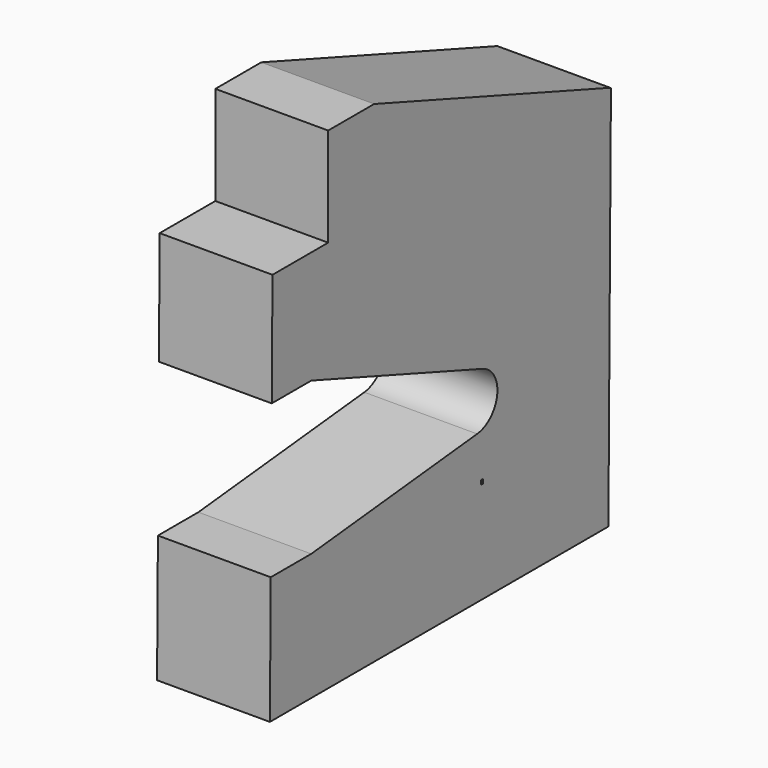
from build123d import *

# Parameters (mm, degrees)
F0_W     = 8.845668
F0_H     = 15.479952
F1_DEPTH = 203.2


with BuildPart() as f1:
    # F0 (on Right) → F1 (new body, symmetric)
    with BuildSketch(Plane.YZ):
        with BuildLine():
            Line((-922.739642, 0), (601.312661, 0))
            Line((601.312661, 0), (612.765292, 1382.3425))
            ThreePointArc((612.765292, 1382.3425), (611.622556, 1386.02955), (608.555685, 1388.373582))
            Line((608.555685, 1388.373582), (-453.59378, 1768.602))
            Line((-453.59378, 1768.602), (-660.4, 1768.602))
            Line((-660.4, 1768.602), (-660.4, 1413.002))
            Line((-660.4, 1413.002), (-911.032998, 1413.002))
            Line((-911.032998, 1413.002), (-914.4, 1006.602))
            Line((-914.4, 1006.602), (-736.6, 1006.602))
            Line((-736.6, 1006.602), (34.2428, 730.655584))
            ThreePointArc((34.2428, 730.655584), (100.860801, 622.766489), (10.381972, 533.931832))
            Line((10.381972, 533.931832), (-736.6, 457.2))
            Line((-736.6, 457.2), (-918.951765, 457.2))
            Line((-918.951765, 457.2), (-922.739642, 0))
        make_face()
        with Locations((32.335786, 373.022899)):
            Rectangle(F0_W, F0_H, mode=Mode.SUBTRACT)
    extrude(amount=F1_DEPTH, both=True)


solid = f1.part
